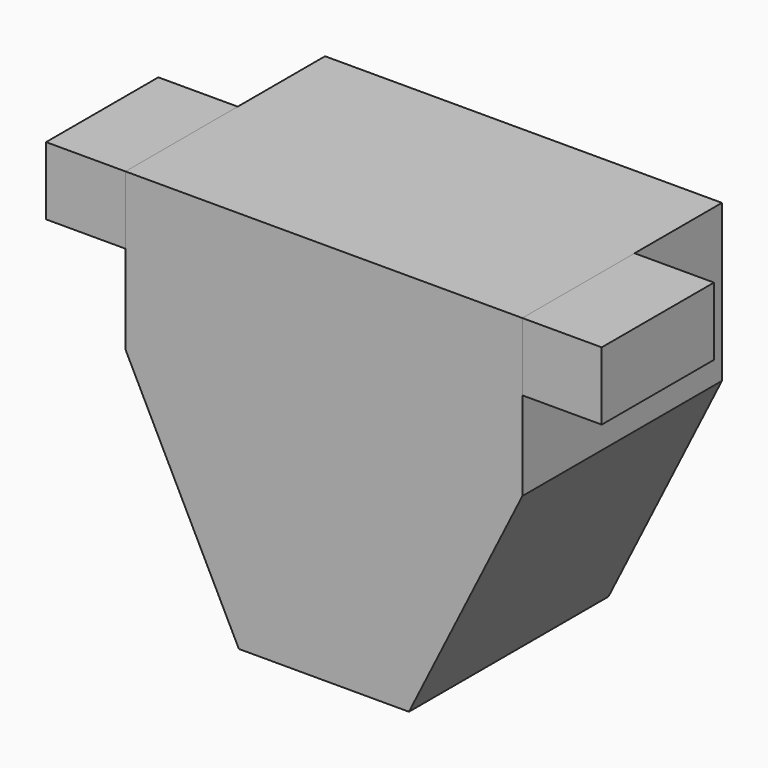
from build123d import *

# Parameters (mm, degrees)
F1_DEPTH = 440
F2_W     = 140
F2_H     = 120
F3_DEPTH = 247.4722


with BuildPart() as f1:
    # F0 (on Front) → F1 (new body)
    with BuildSketch(Plane.XZ):
        Polygon((-160.362742, -315.066803), (139.637258, -315.066803), (339.637258, 84.933197), (339.637258, 361.337646), (-360.362742, 361.337646), (-360.362742, 84.933197), align=None)
    extrude(amount=F1_DEPTH)


with BuildPart() as f3:
    # F2 (on face) → F3 (new body)
    with BuildSketch(Plane.XZ.offset(440)):
        with Locations((-430.362742, 301.337646)):
            Rectangle(F2_W, F2_H)
        with Locations((409.637258, 301.337646)):
            Rectangle(F2_W, F2_H)
    extrude(amount=-F3_DEPTH)


solid = Compound([f1.part, f3.part])
